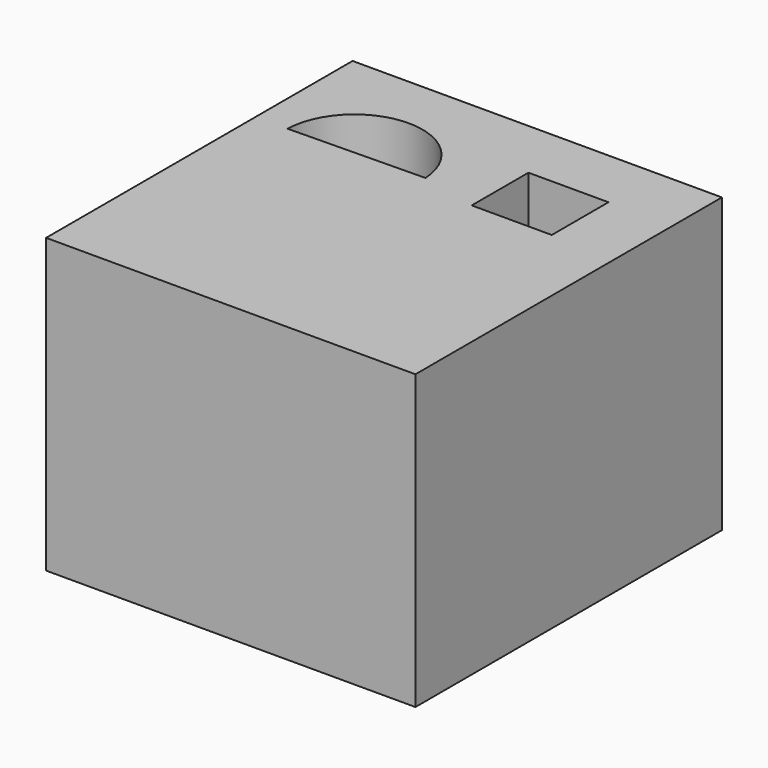
from build123d import *

# Parameters (mm, degrees)
F0_W     = 64.047658
F0_H     = 66.427136
F1_DEPTH = 50.8
F2_W     = 13.880294
F2_H     = 12.293976
F3_DEPTH = 50.8
F5_DEPTH = 50.8


with BuildPart() as f1:
    # F0 (on Top) → F1 (new body)
    with BuildSketch(Plane.XY):
        with Locations((-1.487176, 3.172639)):
            Rectangle(F0_W, F0_H)
    extrude(amount=F1_DEPTH)

    # F2 (on face) → F3 (cut)
    with BuildSketch(Plane.XY.offset(50.8)):
        with Locations((12.492267, 19.531561)):
            Rectangle(F2_W, F2_H)
    extrude(amount=-F3_DEPTH, mode=Mode.SUBTRACT)

    # F4 (on face) → F5 (cut)
    with BuildSketch(Plane.XY.offset(50.8)):
        with BuildLine():
            Line((-27.958885, 15.367473), (-4.362379, 15.764052))
            ThreePointArc((-4.362379, 15.764052), (-16.350913, 26.887516), (-27.958885, 15.367473))
        make_face()
    extrude(amount=-F5_DEPTH, mode=Mode.SUBTRACT)


solid = f1.part
